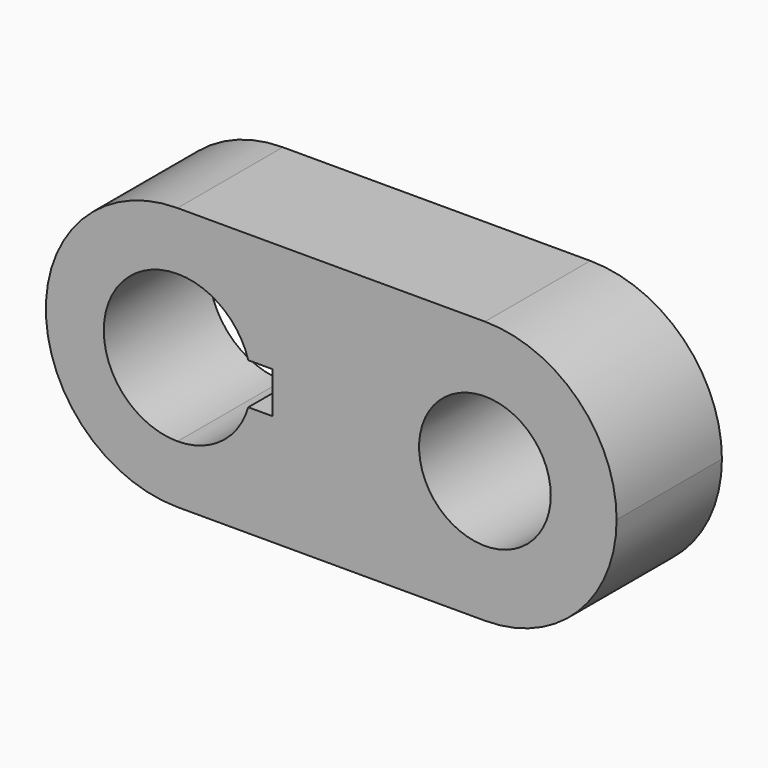
from build123d import *

# Parameters (mm, degrees)
F0_R     = 12.7
F1_DEPTH = 25.4


with BuildPart() as f1:
    # F0 (on Front) → F1 (new body)
    with BuildSketch(Plane.XZ):
        with BuildLine():
            Line((16.9537905604, 25.4), (-42.3537905604, 25.4))
            ThreePointArc((-42.3537905604, 25.4), (-24.3932783182, 17.9605122421), (-16.9537905604, 0))
            ThreePointArc((-16.9537905604, 0), (-24.3932783182, -17.9605122421), (-42.3537905604, -25.4))
            Line((-42.3537905604, -25.4), (16.9537905604, -25.4))
            ThreePointArc((16.9537905604, -25.4), (34.9143028025, -17.9605122421), (42.3537905604, 0))
            ThreePointArc((42.3537905604, 0), (34.9143028025, 17.9605122421), (16.9537905604, 25.4))
        make_face()
        with Locations((16.9537905604, 0)):
            Circle(F0_R, mode=Mode.SUBTRACT)
        with BuildLine():
            Line((-42.3537905604, 14.224), (-42.3537905604, 25.4))
            ThreePointArc((-42.3537905604, 25.4), (-67.7537905604, 0), (-42.3537905604, -25.4))
            Line((-42.3537905604, -25.4), (-42.3537905604, -14.224))
            ThreePointArc((-42.3537905604, -14.224), (-56.5777905604, 0), (-42.3537905604, 14.224))
        make_face()
        with BuildLine():
            ThreePointArc((-16.9537905604, 0), (-24.3932783182, 17.9605122421), (-42.3537905604, 25.4))
            Line((-42.3537905604, 25.4), (-42.3537905604, 14.224))
            ThreePointArc((-42.3537905604, 14.224), (-33.8234800273, 11.3822659523), (-28.7016163276, 3.9925323692))
            Line((-28.7016163276, 3.9925323692), (-23.993383965, 3.9925323692))
            Line((-23.993383965, 3.9925323692), (-23.993383965, -3.9925323692))
            Line((-23.993383965, -3.9925323692), (-28.7016163276, -3.9925323692))
            ThreePointArc((-28.7016163276, -3.9925323692), (-33.8234800273, -11.3822659523), (-42.3537905604, -14.224))
            Line((-42.3537905604, -14.224), (-42.3537905604, -25.4))
            ThreePointArc((-42.3537905604, -25.4), (-24.3932783182, -17.9605122421), (-16.9537905604, 0))
        make_face()
    extrude(amount=F1_DEPTH)


solid = f1.part
